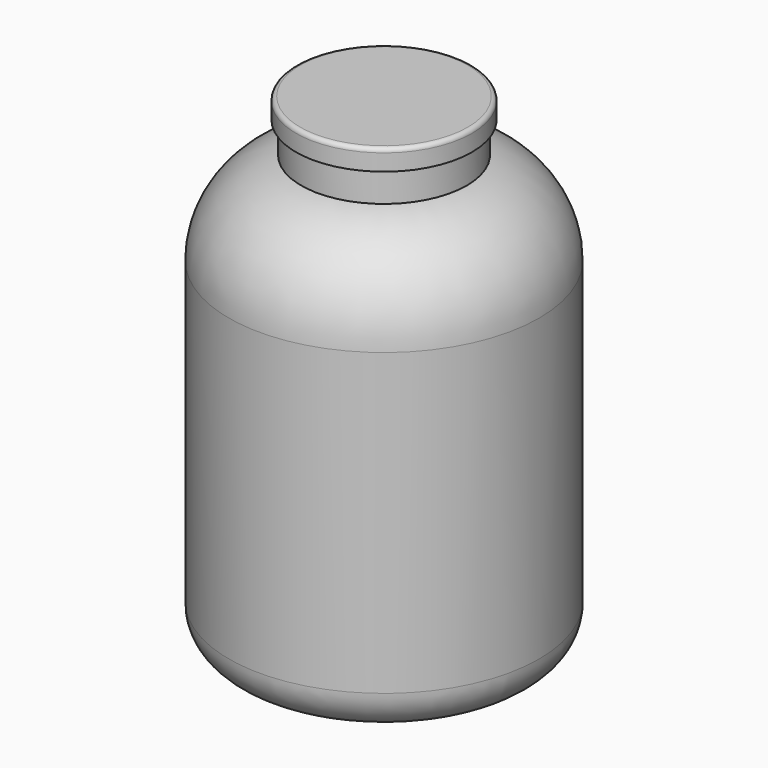
from build123d import *

# Parameters (mm, degrees)
SKETCH_R     = 75
PAD_DEPTH    = 210
FILLET_R     = 45
FILLET001_R  = 20
SKETCH001_R  = 40
PAD001_DEPTH = 15
SKETCH002_R  = 42.5
PAD002_DEPTH = 10
FILLET002_R  = 2


with BuildPart() as part:
    # Sketch → Pad (new body)
    with BuildSketch(Plane.XY):
        Circle(SKETCH_R)
    extrude(amount=PAD_DEPTH)

    # Fillet
    fillet_edges = [part.edges().sort_by_distance(p)[0] for p in [
        (-75, 0, 210),
    ]]
    fillet(fillet_edges, radius=FILLET_R)

    # Fillet001
    fillet001_edges = [part.edges().sort_by_distance(p)[0] for p in [
        (-75, 0, 0),
    ]]
    fillet(fillet001_edges, radius=FILLET001_R)

    # Sketch001 (on Face5 of Fillet001) → Pad001 (join)
    with BuildSketch(Plane.XY.offset(210)):
        Circle(SKETCH001_R)
    extrude(amount=PAD001_DEPTH)

    # Sketch002 (on Face3 of Pad001) → Pad002 (join)
    with BuildSketch(Plane.XY.offset(225)):
        Circle(SKETCH002_R)
    extrude(amount=PAD002_DEPTH)

    # Fillet002
    fillet002_edges = [part.edges().sort_by_distance(p)[0] for p in [
        (-42.5, 0, 235),
    ]]
    fillet(fillet002_edges, radius=FILLET002_R)


solid = part.part
